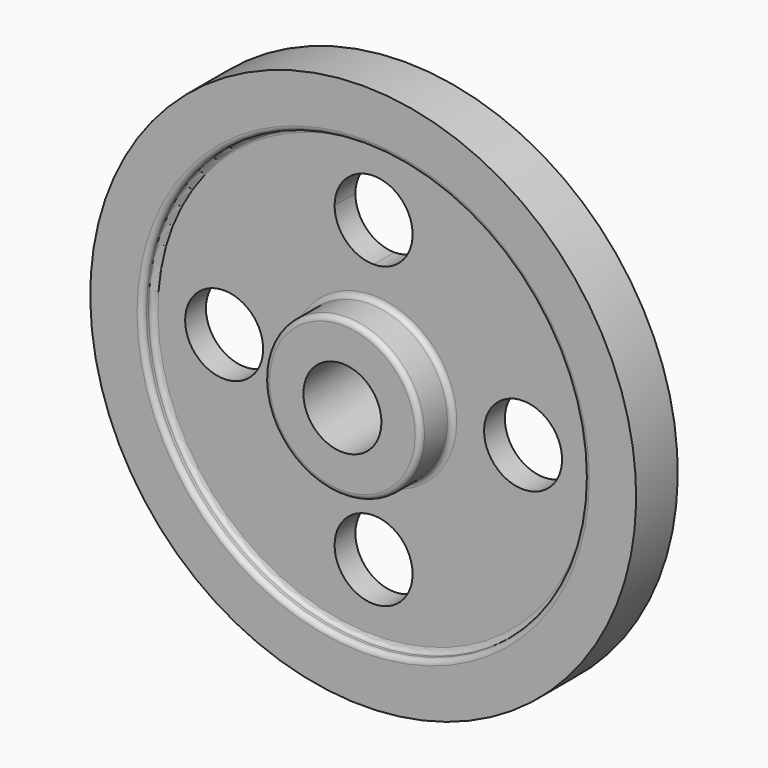
from build123d import *

# Parameters (mm, degrees)
F2_R     = 19.05
F3_DEPTH = 25.4
F4_R     = 2.54
F5_R     = 2.54


with BuildPart() as f1:
    # F0 (on Right) → F1 (revolve)
    with BuildSketch(Plane.YZ):
        Polygon((-25.4, 19.05), (0, 19.05), (25.4, 19.05), (25.4, 38.1), (6.35, 38.1), (6.35, 107.95), (12.7, 107.95), (12.7, 133.35), (0, 133.35), (-12.7, 133.35), (-12.7, 107.95), (-6.35, 107.95), (-6.35, 38.1), (-25.4, 38.1), align=None)
    revolve(axis=Axis((0, 42.4688, 0), (0, 1, 0)))

    # F2 (on face) → F3 (cut)
    with BuildSketch(Plane(origin=(0, 6.35, 0), x_dir=(-1, 0, 0), z_dir=(0, 1, 0))):
        with Locations((73.025, 0)):
            Circle(F2_R)
        with Locations((-73.025, 0)):
            Circle(F2_R)
        with BuildLine():
            ThreePointArc((19.05, 73.025), (-13.470384, 86.495384), (0, 53.975))
            ThreePointArc((0, 53.975), (13.470384, 59.554616), (19.05, 73.025))
        make_face()
        with Locations((0, -73.025)):
            Circle(F2_R)
    extrude(amount=-F3_DEPTH, mode=Mode.SUBTRACT)

    # F4
    f4_edges = [f1.edges().sort_by_distance(p)[0] for p in [
        (0, -6.35, -107.95),
        (0, -12.7, -107.95),
        (0, -25.4, -38.1),
        (0, -6.35, -38.1),
    ]]
    fillet(f4_edges, radius=F4_R)

    # F5
    f5_edges = [f1.edges().sort_by_distance(p)[0] for p in [
        (0, 25.4, -38.1),
        (0, 12.7, -107.95),
        (0, 6.35, -107.95),
    ]]
    fillet(f5_edges, radius=F5_R)


solid = f1.part
